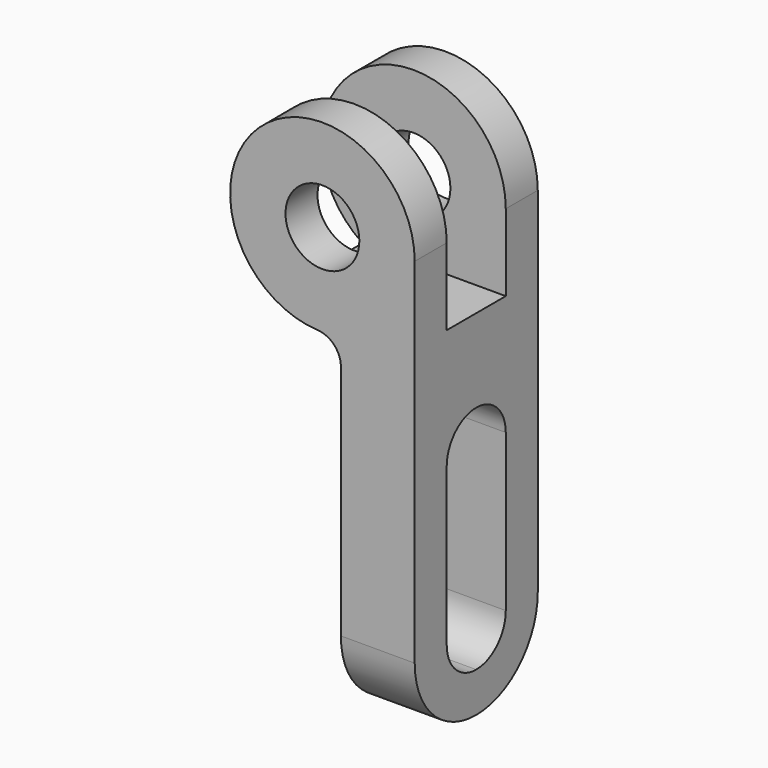
from build123d import *

# Parameters (mm, degrees)
F0_R     = 6
F1_DEPTH = 25
F2_W     = 6
F2_H     = 27.5
F3_DEPTH = 46.8213805685


with BuildPart() as f1:
    # F0 (on Front) → F1 (new body)
    with BuildSketch(Plane.XZ):
        with BuildLine():
            Line((-16.8203805685, -30.1912461221), (-16.8203805685, 39.8087538779))
            ThreePointArc((-16.8203805685, 39.8087538779), (-42.1440885927, 50.6908976295), (-32.6098542527, 24.8295439087))
            ThreePointArc((-32.6098542527, 24.8295439087), (-29.9184755681, 23.5880767233), (-28.8203805685, 20.8350879169))
            Line((-28.8203805685, 20.8350879169), (-28.8203805685, -30.1912461221))
            Line((-28.8203805685, -30.1912461221), (-16.8203805685, -30.1912461221))
        make_face()
        with Locations((-31.8203805685, 39.8087538779)):
            Circle(F0_R, mode=Mode.SUBTRACT)
    extrude(amount=F1_DEPTH)

    # F2 (on Right) → F3 (cut, through all)
    with BuildSketch(Plane.YZ):
        with BuildLine():
            ThreePointArc((-18.5, -17.6912461221), (-16.7426406871, -21.9338868092), (-12.5, -23.6912461221))
            ThreePointArc((-12.5, -23.6912461221), (-8.2573593129, -21.9338868092), (-6.5, -17.6912461221))
            Line((-6.5, -17.6912461221), (-6.5, 7.7954222181))
            ThreePointArc((-6.5, 7.7954222181), (-8.2573593129, 12.0380629052), (-12.5, 13.7954222181))
            ThreePointArc((-12.5, 13.7954222181), (-16.7426406871, 12.0380629052), (-18.5, 7.7954222181))
            Line((-18.5, 7.7954222181), (-18.5, -17.6912461221))
        make_face()
        with BuildLine():
            Line((-12.5, -30.1912461221), (0, -30.1912461221))
            Line((0, -30.1912461221), (0, -17.6912461221))
            ThreePointArc((0, -17.6912461221), (-3.6611652352, -26.530080887), (-12.5, -30.1912461221))
        make_face()
        with BuildLine():
            Line((-25, -30.1912461221), (-12.5, -30.1912461221))
            ThreePointArc((-12.5, -30.1912461221), (-21.3388347648, -26.530080887), (-25, -17.6912461221))
            Line((-25, -17.6912461221), (-25, -30.1912461221))
        make_face()
        with Locations((-15.5, 41.0587538779)):
            Rectangle(F2_W, F2_H)
        with Locations((-9.5, 41.0587538779)):
            Rectangle(F2_W, F2_H)
    extrude(amount=-F3_DEPTH, mode=Mode.SUBTRACT)


solid = f1.part
